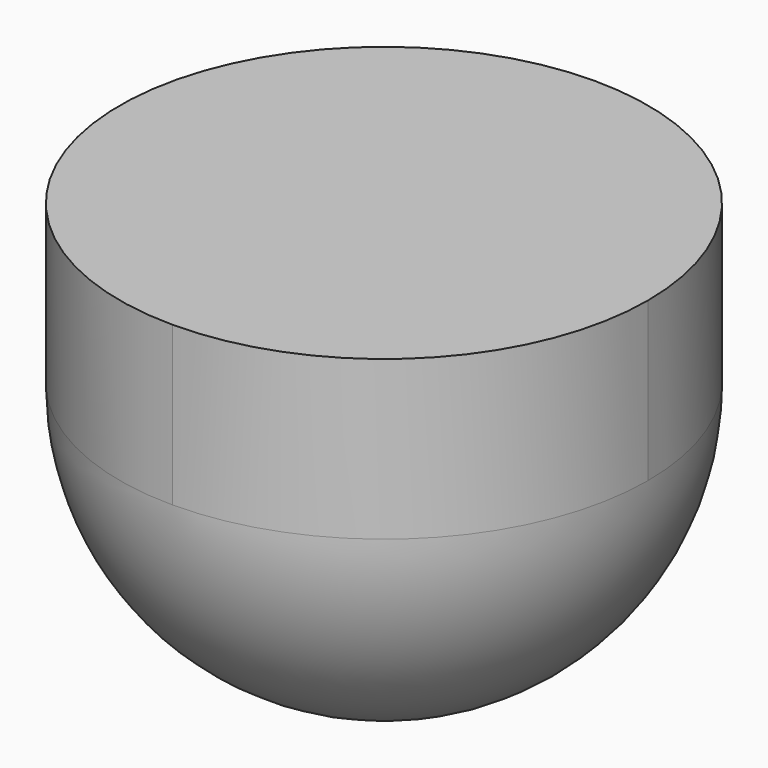
from build123d import *

# Parameters (mm, degrees)
F1_ANGLE = 180
F2_DEPTH = 19


with BuildPart() as f1:
    # F0 (on Top) → F1 (revolve)
    with BuildSketch(Plane.XY):
        with BuildLine():
            Line((0, -31.624823), (0, 31.624823))
            ThreePointArc((0, 31.624823), (-31.624823, 0), (0, -31.624823))
        make_face()
    revolve(axis=Axis((0, 0, 0), (0, -1, 0)), revolution_arc=F1_ANGLE)

    # F0 (on Top) → F2 (join)
    with BuildSketch(Plane.XY):
        with BuildLine():
            Line((0, -31.624823), (0, 31.624823))
            ThreePointArc((0, 31.624823), (-31.624823, 0), (0, -31.624823))
        make_face()
        with BuildLine():
            ThreePointArc((0, -31.624823), (22.362127, -22.362127), (31.624823, 0))
            ThreePointArc((31.624823, 0), (22.362127, 22.362127), (0, 31.624823))
            Line((0, 31.624823), (0, -31.624823))
        make_face()
    extrude(amount=F2_DEPTH)


solid = f1.part
